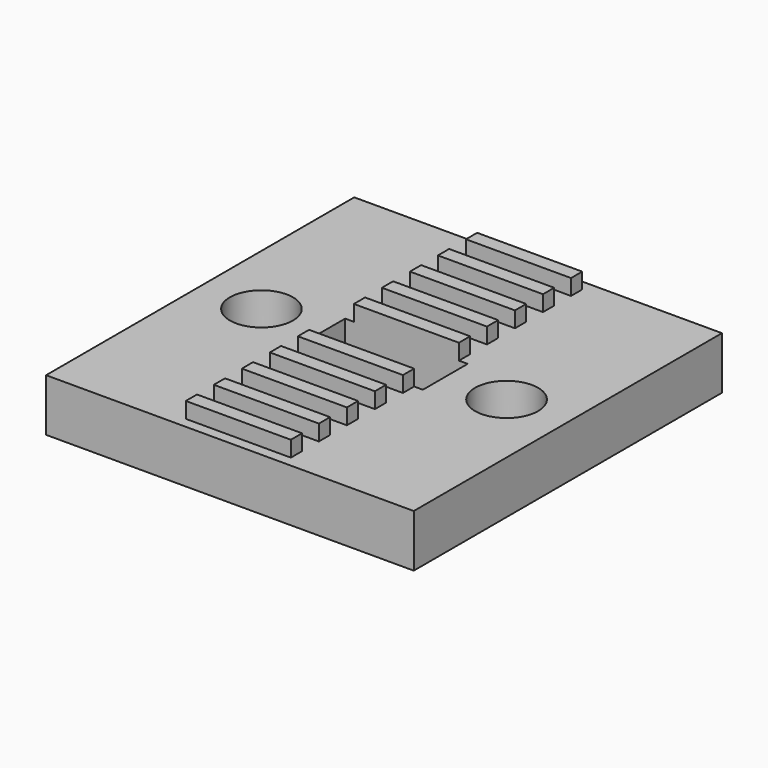
from build123d import *

# Parameters (mm, degrees)
F0_W     = 21
F0_H     = 22
F0_W_2   = 6
F0_H_2   = 0.8
F0_R     = 1.8
F1_DEPTH = 3
F2_DEPTH = 3.9
F3_W     = 7
F3_H     = 3.2
F4_DEPTH = 25


with BuildPart() as f1:
    # F0 (on Top) → F1 (new body)
    with BuildSketch(Plane.XY):
        Rectangle(F0_W, F0_H)
        with Locations((0, -10)):
            Rectangle(F0_W_2, F0_H_2, mode=Mode.SUBTRACT)
        with Locations((0, -8)):
            Rectangle(F0_W_2, F0_H_2, mode=Mode.SUBTRACT)
        with Locations((0, -6)):
            Rectangle(F0_W_2, F0_H_2, mode=Mode.SUBTRACT)
        with Locations((0, -4)):
            Rectangle(F0_W_2, F0_H_2, mode=Mode.SUBTRACT)
        with Locations((0, -2)):
            Rectangle(F0_W_2, F0_H_2, mode=Mode.SUBTRACT)
        with Locations((-7, 0)):
            Circle(F0_R, mode=Mode.SUBTRACT)
        Rectangle(F0_W_2, F0_H_2, mode=Mode.SUBTRACT)
        with Locations((0, 2)):
            Rectangle(F0_W_2, F0_H_2, mode=Mode.SUBTRACT)
        with Locations((0, 4)):
            Rectangle(F0_W_2, F0_H_2, mode=Mode.SUBTRACT)
        with Locations((7, 0)):
            Circle(F0_R, mode=Mode.SUBTRACT)
        with Locations((0, 6)):
            Rectangle(F0_W_2, F0_H_2, mode=Mode.SUBTRACT)
        with Locations((0, 8)):
            Rectangle(F0_W_2, F0_H_2, mode=Mode.SUBTRACT)
        with Locations((0, 10)):
            Rectangle(F0_W_2, F0_H_2, mode=Mode.SUBTRACT)
    extrude(amount=F1_DEPTH)

    # F0 (on Top) → F2 (join)
    with BuildSketch(Plane.XY):
        with Locations((0, 8)):
            Rectangle(F0_W_2, F0_H_2)
        with Locations((0, 6)):
            Rectangle(F0_W_2, F0_H_2)
        with Locations((0, 4)):
            Rectangle(F0_W_2, F0_H_2)
        with Locations((0, 2)):
            Rectangle(F0_W_2, F0_H_2)
        Rectangle(F0_W_2, F0_H_2)
        with Locations((0, -2)):
            Rectangle(F0_W_2, F0_H_2)
        with Locations((0, -4)):
            Rectangle(F0_W_2, F0_H_2)
        with Locations((0, -6)):
            Rectangle(F0_W_2, F0_H_2)
        with Locations((0, -8)):
            Rectangle(F0_W_2, F0_H_2)
        with Locations((0, 10)):
            Rectangle(F0_W_2, F0_H_2)
        with Locations((0, -10)):
            Rectangle(F0_W_2, F0_H_2)
    extrude(amount=F2_DEPTH)

    # F3 (on face) → F4 (cut)
    with BuildSketch(Plane(origin=(0, 0, 0), x_dir=(1, 0, 0), z_dir=(0, 0, -1))):
        Rectangle(F3_W, F3_H)
    extrude(amount=-F4_DEPTH, mode=Mode.SUBTRACT)


solid = f1.part
